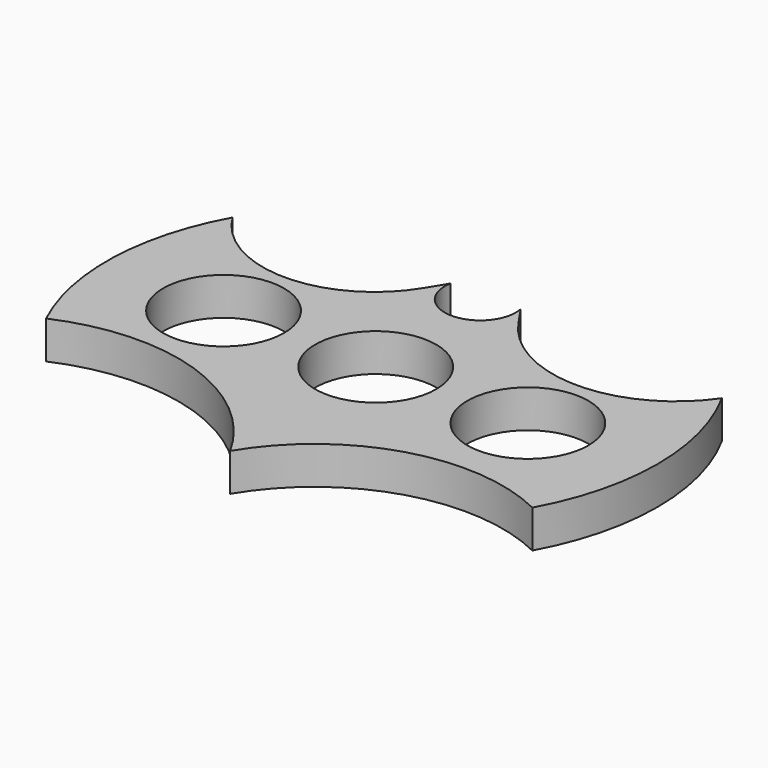
from build123d import *

# Parameters (mm, degrees)
F0_R     = 11.2
F1_DEPTH = 7


with BuildPart() as f1:
    # F0 (on Top) → F1 (new body)
    with BuildSketch(Plane.XY):
        with BuildLine():
            ThreePointArc((-10.026092, 23.615854), (-27.705721, 13.675888), (-45.38535, 23.615854))
            ThreePointArc((-45.38535, 23.615854), (-51.031908, 2.994385), (-46.675835, -17.937725))
            ThreePointArc((-46.675835, -17.937725), (-20.282326, -16.750786), (0, -33.681627))
            ThreePointArc((0, -33.681627), (19.991178, -18.172554), (45.206621, -20.260597))
            ThreePointArc((45.206621, -20.260597), (50.831094, 1.677629), (45.206621, 23.615854))
            ThreePointArc((45.206621, 23.615854), (26.365556, 13.671385), (7.52449, 23.615854))
            Line((7.52449, 23.615854), (5.063673, 27.216647))
            ThreePointArc((5.063673, 27.216647), (-1.372188, 19.362486), (-7.864309, 27.170209))
            Line((-7.864309, 27.170209), (-10.026092, 23.615854))
        make_face()
        with Locations((-28.172232, 0)):
            Circle(F0_R, mode=Mode.SUBTRACT)
        Circle(F0_R, mode=Mode.SUBTRACT)
        with Locations((28.172232, 0)):
            Circle(F0_R, mode=Mode.SUBTRACT)
    extrude(amount=F1_DEPTH)


solid = f1.part
